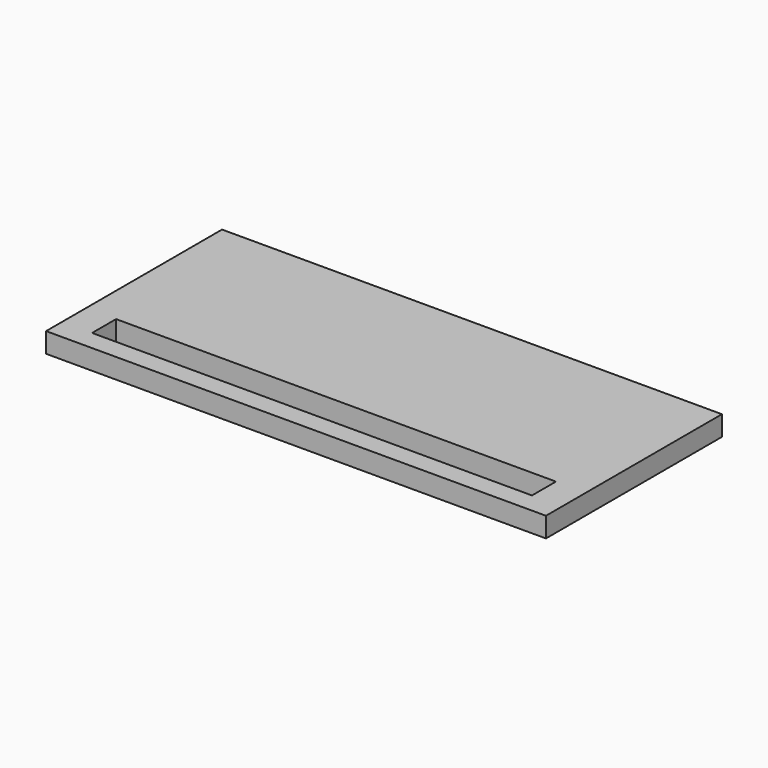
from build123d import *

# Parameters (mm, degrees)
BOX135_W     = 22
BOX135_H     = 1.5
BOX135_DEPTH = 2
BOX134_W     = 25
BOX134_H     = 11
BOX134_DEPTH = 1


with BuildPart() as longledhole006:
    # Box135 → Box135 (new body)
    with BuildSketch(Plane(origin=(1.5, 1, 0), x_dir=(1, 0, 0), z_dir=(0, 0, 1))):
        with Locations((11, 0.75)):
            Rectangle(BOX135_W, BOX135_H)
    extrude(amount=BOX135_DEPTH)


with BuildPart() as cut023:
    # Box134 → Box134 (new body)
    with BuildSketch(Plane.XY):
        with Locations((12.5, 5.5)):
            Rectangle(BOX134_W, BOX134_H)
    extrude(amount=BOX134_DEPTH)

    # Cut023: cut LongLedHole006
    add(longledhole006.part, mode=Mode.SUBTRACT)


solid = cut023.part
